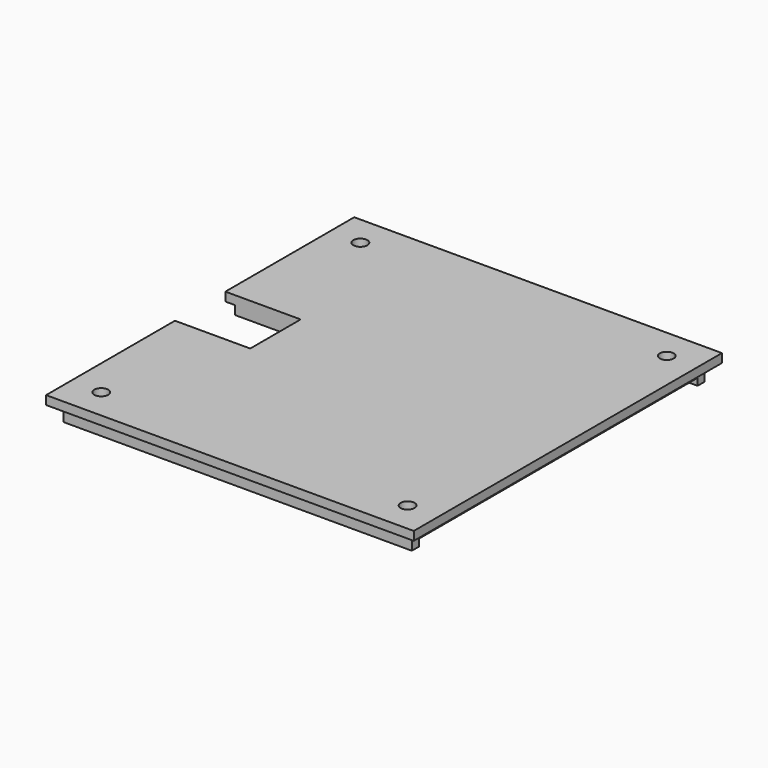
from build123d import *

# Parameters (mm, degrees)
CYLINDER016_R     = 0.8
CYLINDER016_DEPTH = 20
CYLINDER017_R     = 0.8
CYLINDER017_DEPTH = 20
CYLINDER018_R     = 0.8
CYLINDER018_DEPTH = 20
CYLINDER019_R     = 0.8
CYLINDER019_DEPTH = 20
BOX010_W          = 39.8
BOX010_H          = 1
BOX010_DEPTH      = 0.8
BOX009_W          = 39.8
BOX009_H          = 1
BOX009_DEPTH      = 0.8
BOX007_W          = 20
BOX007_H          = 7.2
BOX007_DEPTH      = 10
BOX006_W          = 42
BOX006_H          = 44
BOX006_DEPTH      = 1
BOX005_W          = 39.8
BOX005_H          = 41.8
BOX005_DEPTH      = 1


with BuildPart() as zylinder016:
    # Cylinder016 → Cylinder016 (new body)
    with BuildSketch(Plane(origin=(37.5, 2.5, -10), x_dir=(1, 0, 0), z_dir=(0, 0, 1))):
        Circle(CYLINDER016_R)
    extrude(amount=CYLINDER016_DEPTH)


with BuildPart() as zylinder017:
    # Cylinder017 → Cylinder017 (new body)
    with BuildSketch(Plane(origin=(2.5, 2.5, -10), x_dir=(1, 0, 0), z_dir=(0, 0, 1))):
        Circle(CYLINDER017_R)
    extrude(amount=CYLINDER017_DEPTH)


with BuildPart() as zylinder018:
    # Cylinder018 → Cylinder018 (new body)
    with BuildSketch(Plane(origin=(37.5, 39.5, -10), x_dir=(1, 0, 0), z_dir=(0, 0, 1))):
        Circle(CYLINDER018_R)
    extrude(amount=CYLINDER018_DEPTH)


with BuildPart() as compound006:
    # Cylinder019 → Cylinder019 (new body)
    with BuildSketch(Plane(origin=(2.5, 39.5, -10), x_dir=(1, 0, 0), z_dir=(0, 0, 1))):
        Circle(CYLINDER019_R)
    extrude(amount=CYLINDER019_DEPTH)

    # Compound006: union Zylinder016, Zylinder017, Zylinder018
    add(zylinder016.part)
    add(zylinder017.part)
    add(zylinder018.part)


with BuildPart() as obj1:
    # Box010 → Box010 (new body)
    with BuildSketch(Plane(origin=(0.1, 0.1, 0.7), x_dir=(1, 0, 0), z_dir=(0, 0, 1))):
        with Locations((19.9, 0.5)):
            Rectangle(BOX010_W, BOX010_H)
    extrude(amount=BOX010_DEPTH)


with BuildPart() as compound003:
    # Box009 → Box009 (new body)
    with BuildSketch(Plane(origin=(0.1, 40.9, 0.7), x_dir=(1, 0, 0), z_dir=(0, 0, 1))):
        with Locations((19.9, 0.5)):
            Rectangle(BOX009_W, BOX009_H)
    extrude(amount=BOX009_DEPTH)

    # Compound003: union obj1
    add(obj1.part)


with BuildPart() as obj2:
    # Box007 → Box007 (new body)
    with BuildSketch(Plane(origin=(-12.4, 17.4, 0), x_dir=(1, 0, 0), z_dir=(0, 0, 1))):
        with Locations((10, 3.6)):
            Rectangle(BOX007_W, BOX007_H)
    extrude(amount=BOX007_DEPTH)


with BuildPart() as obj3:
    # Box006 → Box006 (new body)
    with BuildSketch(Plane(origin=(-1, -1, 2.5), x_dir=(1, 0, 0), z_dir=(0, 0, 1))):
        with Locations((21, 22)):
            Rectangle(BOX006_W, BOX006_H)
    extrude(amount=BOX006_DEPTH)


with BuildPart() as lowerpart:
    # Box005 → Box005 (new body)
    with BuildSketch(Plane(origin=(0.1, 0.1, 1.5), x_dir=(1, 0, 0), z_dir=(0, 0, 1))):
        with Locations((19.9, 20.9)):
            Rectangle(BOX005_W, BOX005_H)
    extrude(amount=BOX005_DEPTH)

    # Fusion001: union obj3
    add(obj3.part)

    # Cut003: cut obj2
    add(obj2.part, mode=Mode.SUBTRACT)

    # Fusion003: union Compound003
    add(compound003.part)

    # Cut008: cut Compound006
    add(compound006.part, mode=Mode.SUBTRACT)


solid = lowerpart.part
